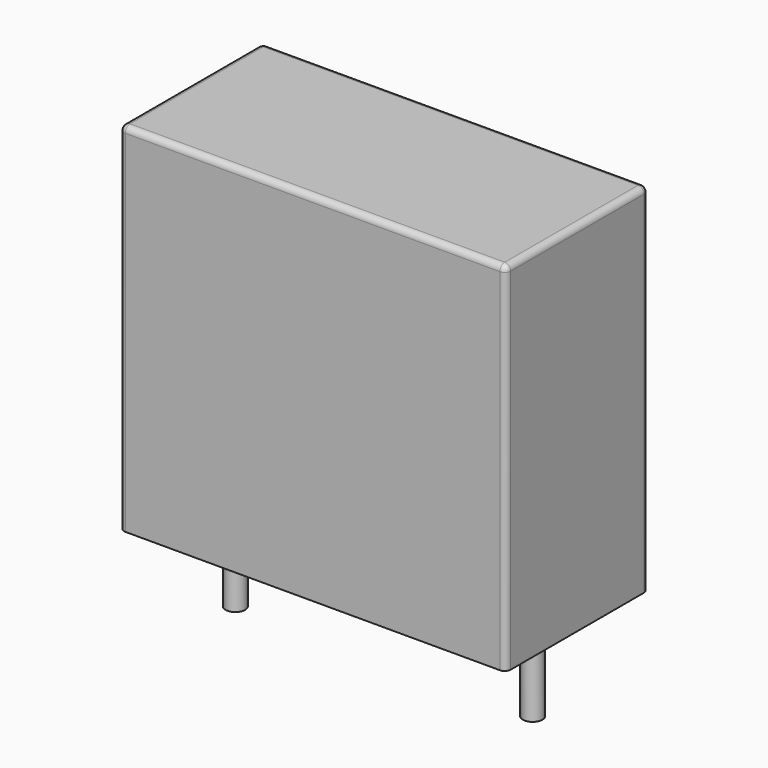
from build123d import *

# Parameters (mm, degrees)
CYLINDER001_R     = 0.33
CYLINDER001_DEPTH = 3
CYLINDER_R        = 0.33
CYLINDER_DEPTH    = 3
BOX_W             = 13
BOX_H             = 6
BOX_DEPTH         = 12
FILLET_R          = 0.2


with BuildPart() as pin2:
    # Cylinder001 → Cylinder001 (new body)
    with BuildSketch(Plane(origin=(5, 0, -3), x_dir=(1, 0, 0), z_dir=(0, 0, 1))):
        Circle(CYLINDER001_R)
    extrude(amount=CYLINDER001_DEPTH)


with BuildPart() as pin1:
    # Cylinder → Cylinder (new body)
    with BuildSketch(Plane(origin=(-5, 0, -3), x_dir=(1, 0, 0), z_dir=(0, 0, 1))):
        Circle(CYLINDER_R)
    extrude(amount=CYLINDER_DEPTH)


with BuildPart() as obj1:
    # Box → Box (new body)
    with BuildSketch(Plane(origin=(-6.5, -3, 0), x_dir=(1, 0, 0), z_dir=(0, 0, 1))):
        with Locations((6.5, 3)):
            Rectangle(BOX_W, BOX_H)
    extrude(amount=BOX_DEPTH)

    # Fillet
    fillet_edges = [obj1.edges().sort_by_distance(p)[0] for p in [
        (-6.5, -3, 6),
        (-6.5, 0, 12),
        (-6.5, 3, 6),
        (6.5, -3, 6),
        (6.5, 0, 12),
        (6.5, 3, 6),
        (0, -3, 12),
        (0, 3, 12),
    ]]
    fillet(fillet_edges, radius=FILLET_R)

    # Fusion: union Pin1
    add(pin1.part)

    # Fusion001: union Pin2
    add(pin2.part)


solid = obj1.part
